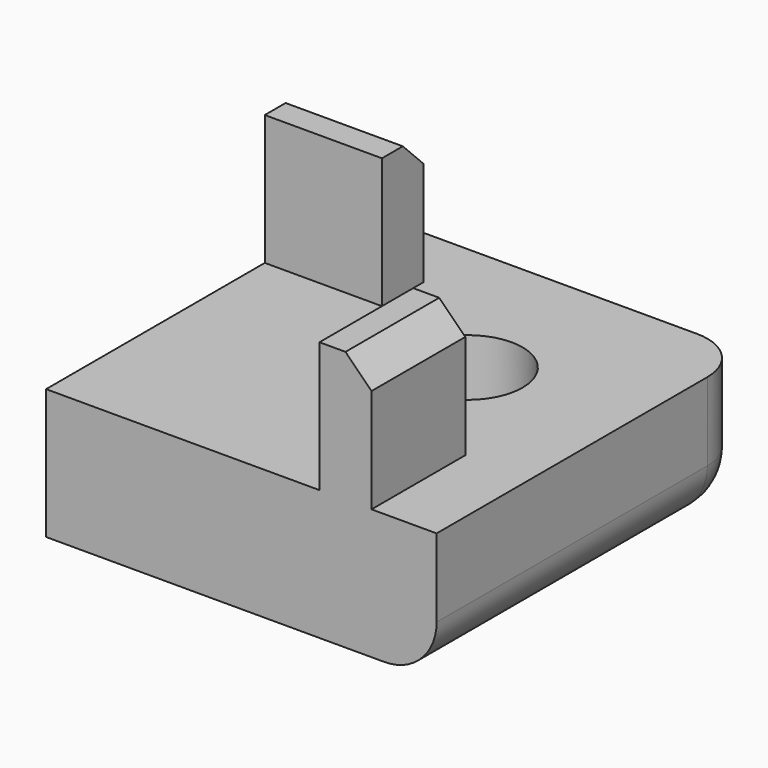
from build123d import *

# Parameters (mm, degrees)
BOX_W           = 15
BOX_H           = 15
BOX_DEPTH       = 15
SKETCH_W        = 110
SKETCH_H        = 80
PAD_DEPTH       = 5
SKETCH001_R     = 2.1
POCKET_DEPTH    = 5
CHAMFER_SIZE    = 1
SKETCH002_W     = 89
SKETCH002_H     = 2
SKETCH002_W_2   = 2
SKETCH002_H_2   = 59
PAD001_DEPTH    = 5
CHAMFER001_SIZE = 1
FILLET_R        = 2


with BuildPart() as cube:
    # Box → Box (new body)
    with BuildSketch(Plane(origin=(40, 25, 0), x_dir=(1, 0, 0), z_dir=(0, 0, 1))):
        with Locations((7.5, 7.5)):
            Rectangle(BOX_W, BOX_H)
    extrude(amount=BOX_DEPTH)


with BuildPart() as common:
    # Sketch → Pad (new body)
    with BuildSketch(Plane.XY):
        Rectangle(SKETCH_W, SKETCH_H)
    extrude(amount=PAD_DEPTH)

    # Sketch001 (on Face6 of Pad) → Pocket (cut)
    with BuildSketch(Plane.XY.offset(5)):
        with Locations((49, 34)):
            Circle(SKETCH001_R)
        with Locations((-49, 34)):
            Circle(SKETCH001_R)
        with Locations((-49, -34)):
            Circle(SKETCH001_R)
        with Locations((49, -34)):
            Circle(SKETCH001_R)
    extrude(amount=-POCKET_DEPTH, mode=Mode.SUBTRACT)

    # Chamfer
    chamfer_edges = [common.edges().sort_by_distance(p)[0] for p in [
        (-51.1, -34, 0),
        (-51.1, 34, 0),
        (46.9, 34, 0),
        (46.9, -34, 0),
    ]]
    chamfer(chamfer_edges, length=CHAMFER_SIZE)

    # Sketch002 (on Face11 of Chamfer) → Pad001 (join)
    with BuildSketch(Plane.XY.offset(5)):
        with Locations((0, 36.5)):
            Rectangle(SKETCH002_W, SKETCH002_H)
        with Locations((0, -36.5)):
            Rectangle(SKETCH002_W, SKETCH002_H)
        with Locations((51.5, 0)):
            Rectangle(SKETCH002_W_2, SKETCH002_H_2)
        with Locations((-51.5, 0)):
            Rectangle(SKETCH002_W_2, SKETCH002_H_2)
    extrude(amount=PAD001_DEPTH)

    # Chamfer001
    chamfer001_edges = [common.edges().sort_by_distance(p)[0] for p in [
        (-52.5, 0, 10),
        (0, 37.5, 10),
        (52.5, 0, 10),
        (0, -37.5, 10),
    ]]
    chamfer(chamfer001_edges, length=CHAMFER001_SIZE)

    # Fillet
    fillet_edges = [common.edges().sort_by_distance(p)[0] for p in [
        (-55, -40, 2.5),
        (-55, 0, 0),
        (-55, 40, 2.5),
        (0, 40, 0),
        (55, 40, 2.5),
        (55, 0, 0),
        (55, -40, 2.5),
        (0, -40, 0),
    ]]
    fillet(fillet_edges, radius=FILLET_R)

    # Common: intersect Cube
    add(cube.part, mode=Mode.INTERSECT)


solid = common.part
